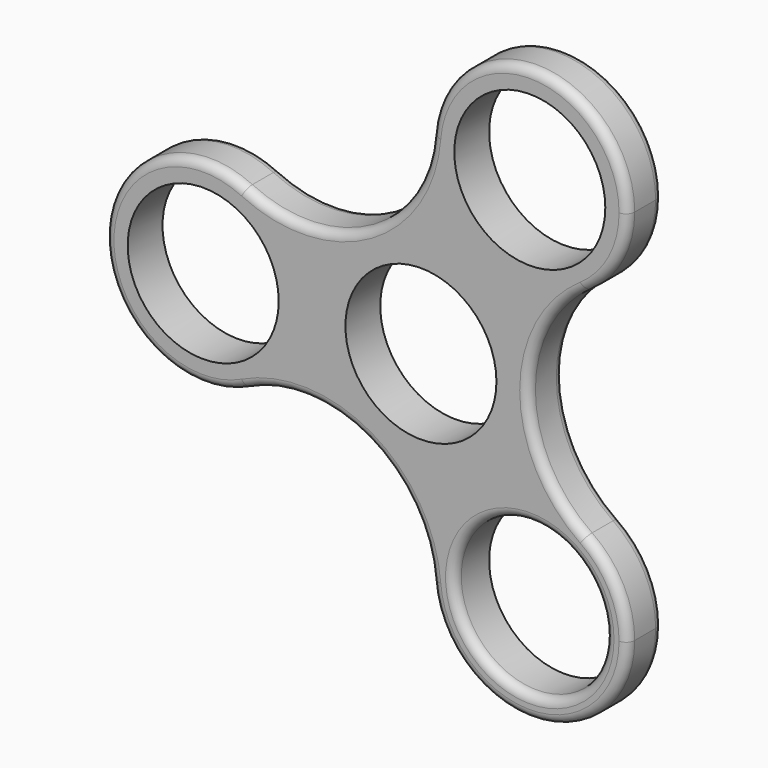
from build123d import *

# Parameters (mm, degrees)
F0_R     = 11.0109
F1_DEPTH = 6.35
F2_R     = 1.27


with BuildPart() as f1:
    # F0 (on Front) → F1 (new body)
    with BuildSketch(Plane.XZ):
        with BuildLine():
            ThreePointArc((1.630246, 28.600681), (-7.837759, 13.575397), (-25.58404, 12.888506))
            ThreePointArc((-25.58404, 12.888506), (-19.662221, 7.616971), (-17.4625, 0))
            ThreePointArc((-17.4625, 0), (-19.662221, -7.616971), (-25.58404, -12.888506))
            ThreePointArc((-25.58404, -12.888506), (-7.837759, -13.575397), (1.630246, -28.600681))
            ThreePointArc((1.630246, -28.600681), (8.73125, -15.122969), (23.953793, -15.712175))
            ThreePointArc((23.953793, -15.712175), (15.675518, 0), (23.953793, 15.712175))
            ThreePointArc((23.953793, 15.712175), (8.73125, 15.122969), (1.630246, 28.600681))
        make_face()
        Circle(F0_R, mode=Mode.SUBTRACT)
        with BuildLine():
            ThreePointArc((-17.4625, 0), (-19.662221, 7.616971), (-25.58404, 12.888506))
            ThreePointArc((-25.58404, 12.888506), (-46.0375, 0), (-25.58404, -12.888506))
            ThreePointArc((-25.58404, -12.888506), (-19.662221, -7.616971), (-17.4625, 0))
        make_face()
        with Locations((-31.75, 0)):
            Circle(F0_R, mode=Mode.SUBTRACT)
        with BuildLine():
            ThreePointArc((30.1625, 27.496307), (16.427601, 41.773116), (1.630246, 28.600681))
            ThreePointArc((1.630246, 28.600681), (8.73125, 15.122969), (23.953793, 15.712175))
            ThreePointArc((23.953793, 15.712175), (28.51538, 20.836468), (30.1625, 27.496307))
        make_face()
        with Locations((15.875, 27.496307)):
            Circle(F0_R, mode=Mode.SUBTRACT)
        with BuildLine():
            ThreePointArc((23.953793, -15.712175), (8.73125, -15.122969), (1.630246, -28.600681))
            ThreePointArc((1.630246, -28.600681), (16.427601, -41.773116), (30.1625, -27.496307))
            ThreePointArc((30.1625, -27.496307), (28.51538, -20.836468), (23.953793, -15.712175))
        make_face()
        with Locations((15.875, -27.496307)):
            Circle(F0_R, mode=Mode.SUBTRACT)
    extrude(amount=F1_DEPTH)

    # F2
    f2_edges = [f1.edges().sort_by_distance(p)[0] for p in [
        (-46.0375, 0, 0),
        (-46.0375, -6.35, 0),
        (-7.837759, -6.35, 13.575397),
        (-7.837759, 0, 13.575397),
        (23.01875, 0, 39.869645),
        (23.01875, -6.35, 39.869645),
        (-7.837759, -6.35, -13.575397),
        (15.675518, -6.35, 0),
        (15.675518, 0, 0),
        (23.01875, 0, -39.869645),
        (4.8641, -6.35, -27.496307),
        (23.01875, -6.35, -39.869645),
        (-7.837759, 0, -13.575397),
    ]]
    fillet(f2_edges, radius=F2_R)


solid = f1.part
